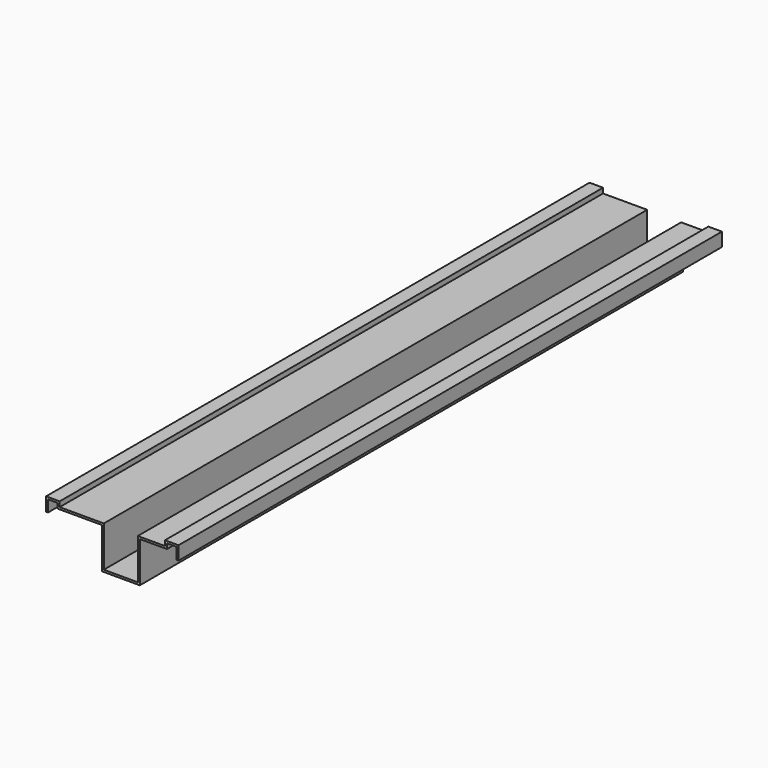
from build123d import *

# Parameters (mm, degrees)
F1_DEPTH = 2000


with BuildPart() as f1:
    # F0 (on Front) → F1 (new body)
    with BuildSketch(Plane.XZ):
        Polygon((0, 40), (0, 0), (6, 0), (6, 34), (34, 34), (34, 19), (164, 19), (164, -101), (276, -101), (276, 19), (356, 19), (356, 34), (384, 34), (384, 0), (390, 0), (390, 40), (350, 40), (350, 25), (270, 25), (270, -95), (170, -95), (170, 25), (40, 25), (40, 40), align=None)
    extrude(amount=F1_DEPTH)


solid = f1.part
